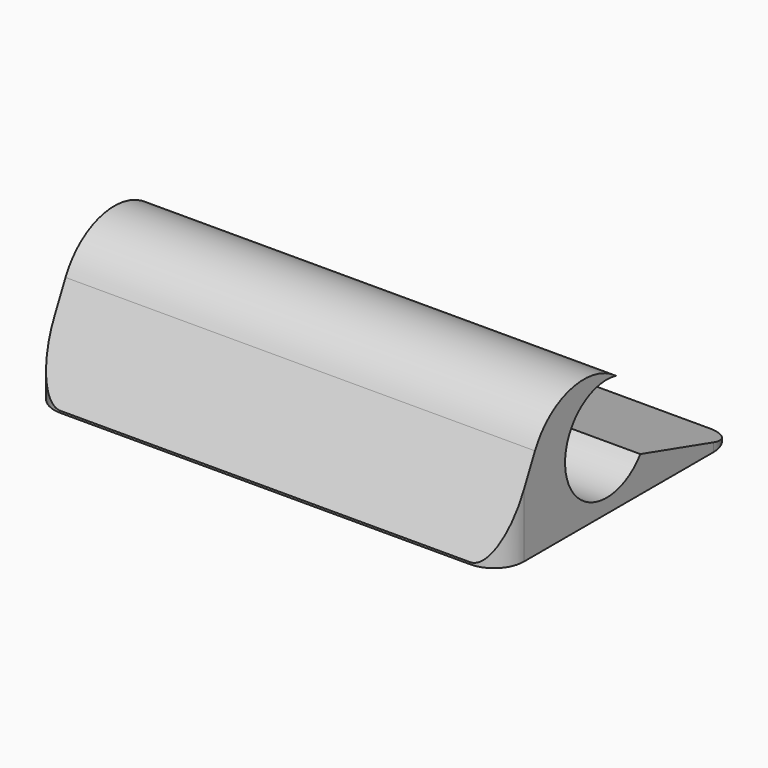
from build123d import *

# Parameters (mm, degrees)
F1_DEPTH      = 36.49653
F3_DEPTH      = 100
F3_DEPTH_BACK = 100


with BuildPart() as f1:
    # F0 (on Top) → F1 (new body)
    with BuildSketch(Plane.XY):
        with BuildLine():
            Line((34.244905, 33.673864), (-34.492507, 33.673864))
            ThreePointArc((-34.492507, 33.673864), (-38.02804, 32.209398), (-39.492507, 28.673864))
            Line((-39.492507, 28.673864), (-39.492507, -11.094126))
            ThreePointArc((-39.492507, -11.094126), (-38.02804, -14.62966), (-34.492507, -16.094126))
            Line((-34.492507, -16.094126), (34.244905, -16.094126))
            ThreePointArc((34.244905, -16.094126), (37.780439, -14.62966), (39.244905, -11.094126))
            Line((39.244905, -11.094126), (39.244905, 28.673864))
            ThreePointArc((39.244905, 28.673864), (37.780439, 32.209398), (34.244905, 33.673864))
        make_face()
    extrude(amount=F1_DEPTH)

    # F2 (on face) → F3 (cut, two sides)
    with BuildSketch(Plane.YZ.offset(39.244905)) as f3_sk:
        with BuildLine():
            ThreePointArc((-8.764316, 15.408549), (-1.257277, 21.480219), (8.21181, 19.594163))
            ThreePointArc((8.21181, 19.594163), (-1.905237, 8.037106), (13.312896, 5.956566))
            Line((13.312896, 5.956566), (33.613134, 0))
            Line((33.613134, 0), (54.329786, -9.86721))
            Line((54.329786, -9.86721), (53.184647, 35.41794))
            Line((53.184647, 35.41794), (12.584168, 41.872375))
            Line((12.584168, 41.872375), (-31.451736, 39.269779))
            Line((-31.451736, 39.269779), (-27.391687, -11.949287))
            Line((-27.391687, -11.949287), (-16.252581, 0))
            Line((-16.252581, 0), (-8.764316, 15.408549))
        make_face()
    extrude(amount=F3_DEPTH, mode=Mode.SUBTRACT)
    extrude(f3_sk.sketch, amount=-F3_DEPTH_BACK, mode=Mode.SUBTRACT)


solid = f1.part
